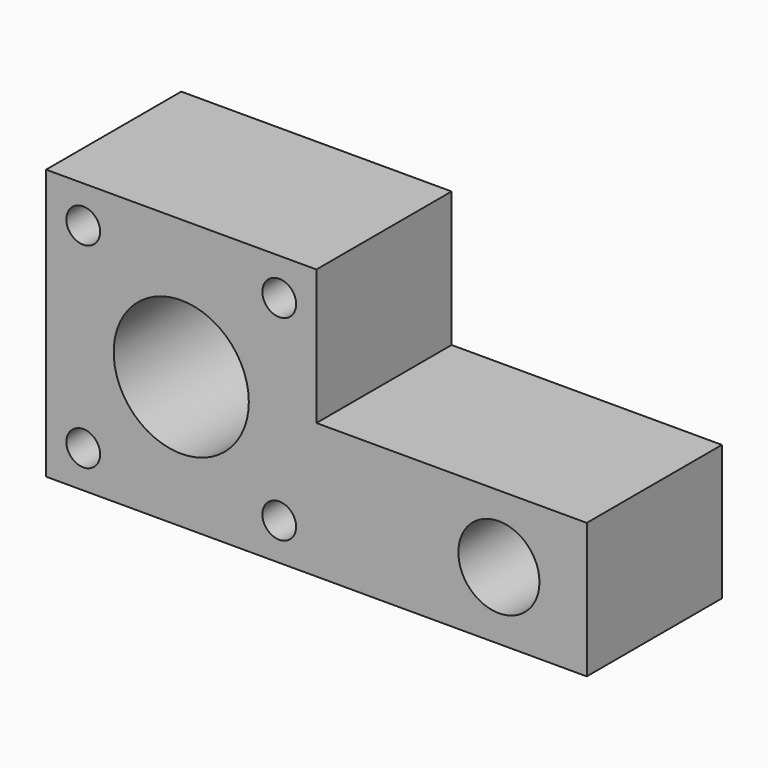
from build123d import *

# Parameters (mm, degrees)
F0_R     = 2.5
F0_R_2   = 10
F0_R_3   = 6
F1_DEPTH = 25


with BuildPart() as f1:
    # F0 (on Front) → F1 (new body)
    with BuildSketch(Plane.XZ):
        Polygon((-20.799367, 29.298078), (-60.799367, 29.298078), (-60.799367, -10.701922), (19.200633, -10.701922), (19.200633, 9.298078), (-20.799367, 9.298078), align=None)
        with Locations((-55.299367, -5.201922)):
            Circle(F0_R, mode=Mode.SUBTRACT)
        with Locations((-26.299367, -5.201922)):
            Circle(F0_R, mode=Mode.SUBTRACT)
        with Locations((-40.799367, 8.787482)):
            Circle(F0_R_2, mode=Mode.SUBTRACT)
        with Locations((6.200633, -0.701922)):
            Circle(F0_R_3, mode=Mode.SUBTRACT)
        with Locations((-55.299367, 23.798078)):
            Circle(F0_R, mode=Mode.SUBTRACT)
        with Locations((-26.299367, 23.798078)):
            Circle(F0_R, mode=Mode.SUBTRACT)
    extrude(amount=F1_DEPTH)


solid = f1.part
